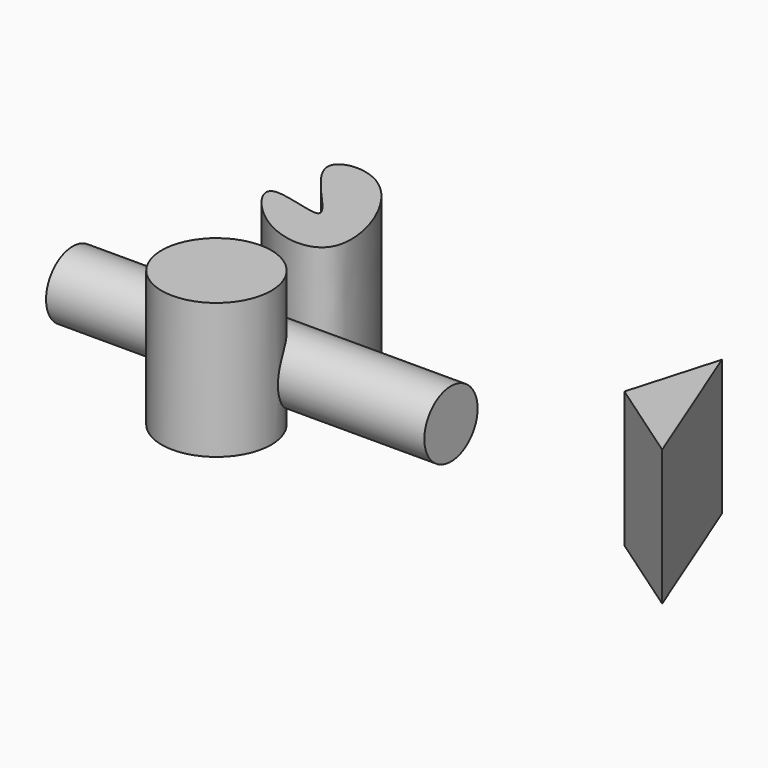
from build123d import *

# Parameters (mm, degrees)
F0_R     = 30.811611331
F1_DEPTH = 76.2
F2_R     = 18.6971508948
F3_DEPTH = 212.598


with BuildPart() as f1:
    # F0 (on Top) → F1 (new body)
    with BuildSketch(Plane.XY):
        with Locations((-112.6464754343, -49.9720610678)):
            Circle(F0_R)
    extrude(amount=F1_DEPTH)

    # F2 (on Right) → F3 (join)
    with BuildSketch(Plane.YZ):
        with Locations((-26.0433871299, 27.2547081113)):
            Circle(F2_R)
    extrude(amount=-F3_DEPTH)


with BuildPart() as f1b:
    # F0 (on Top) → F1, piece 2 (new body)
    with BuildSketch(Plane.XY):
        with BuildLine():
            add(Edge.make_bspline(
                [(-140.4866576195, 24.3408698589), (-134.8615042918, 26.6907800784), (-87.3968522729, 6.6396396226), (-155.2191145547, 62.2964469519), (-100.6008018356, 71.1715990029), (-70.0791004951, -12.4157216571), (-124.4355264908, -7.3729145233), (-146.1710125319, 21.9662281519), (-140.4866576195, 24.3408698589)],
                knots=[0, 0, 0, 0, 0.1478093617, 0.3288941588, 0.4657669392, 0.6864497206, 0.8506350276, 1, 1, 1, 1], degree=3))
        make_face()
    extrude(amount=F1_DEPTH)


with BuildPart() as f1c:
    # F0 (on Top) → F1, piece 3 (new body)
    with BuildSketch(Plane.XY):
        Polygon((98.9495068789, -27.8777908534), (146.4279145002, -60.7237517834), (113.4624555707, 22.4664118141), align=None)
    extrude(amount=F1_DEPTH)


solid = Compound([f1.part, f1b.part, f1c.part])
